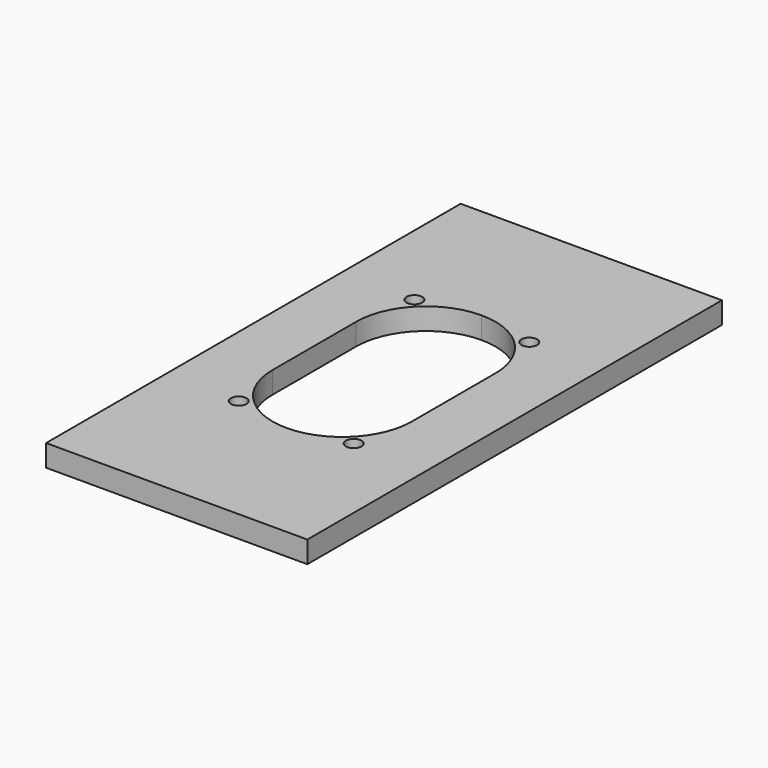
from build123d import *

# Parameters (mm, degrees)
F0_W     = 76.2
F0_H     = 151.13
F0_R     = 2.286
F1_DEPTH = 6.35


with BuildPart() as f1:
    # F0 (on Top) → F1 (new body)
    with BuildSketch(Plane.XY):
        Rectangle(F0_W, F0_H)
        Polygon((0, 35.56), (20.32, 35.56), (20.32, 15.24), (20.32, -15.24), (20.32, -35.56), (0, -35.56), (-20.32, -35.56), (-20.32, -15.24), (-20.32, 15.24), (-20.32, 35.56), align=None, mode=Mode.SUBTRACT)
        with BuildLine():
            ThreePointArc((0, -35.56), (-14.36841, -29.60841), (-20.32, -15.24))
            Line((-20.32, -15.24), (-20.32, -35.56))
            Line((-20.32, -35.56), (0, -35.56))
        make_face()
        with Locations((-16.764, -32.004)):
            Circle(F0_R, mode=Mode.SUBTRACT)
        with BuildLine():
            Line((20.32, -35.56), (20.32, -15.24))
            ThreePointArc((20.32, -15.24), (14.36841, -29.60841), (0, -35.56))
            Line((0, -35.56), (20.32, -35.56))
        make_face()
        with Locations((16.764, -32.004)):
            Circle(F0_R, mode=Mode.SUBTRACT)
        with BuildLine():
            ThreePointArc((-20.32, 15.24), (-14.36841, 29.60841), (0, 35.56))
            Line((0, 35.56), (-20.32, 35.56))
            Line((-20.32, 35.56), (-20.32, 15.24))
        make_face()
        with Locations((-16.764, 32.004)):
            Circle(F0_R, mode=Mode.SUBTRACT)
        with BuildLine():
            Line((20.32, 15.24), (20.32, 35.56))
            Line((20.32, 35.56), (0, 35.56))
            ThreePointArc((0, 35.56), (14.36841, 29.60841), (20.32, 15.24))
        make_face()
        with Locations((16.764, 32.004)):
            Circle(F0_R, mode=Mode.SUBTRACT)
    extrude(amount=F1_DEPTH)


solid = f1.part
